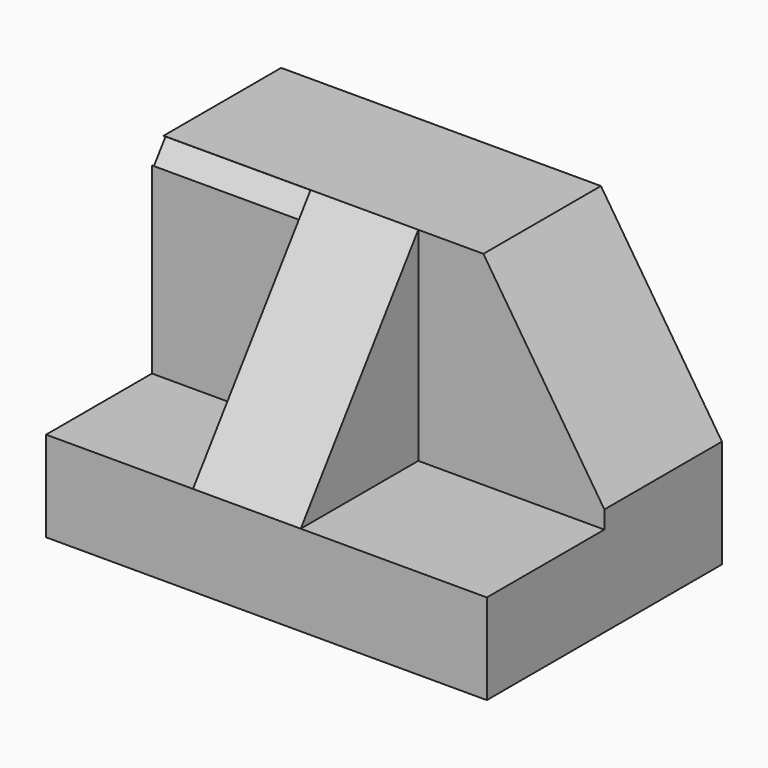
from build123d import *

# Parameters (mm, degrees)
F0_W      = 38.1
F0_H      = 25.4
F1_DEPTH  = 25.4
F3_DEPTH  = 25.401
F4_W      = 11.4385973006
F4_H      = 17.5851260588
F5_DEPTH  = 12.7
F7_DEPTH  = 12.7
F9_DEPTH  = 25.4
F10_W     = 12.7
F10_H     = 2.1544784386
F11_DEPTH = 0.254


with BuildPart() as f1:
    # F0 (on Front) → F1 (new body)
    with BuildSketch(Plane.XZ):
        with Locations((19.05, 12.7)):
            Rectangle(F0_W, F0_H)
    extrude(amount=F1_DEPTH)

    # F2 (on face) → F3 (cut, through all)
    with BuildSketch(Plane.XZ.offset(25.4)):
        Polygon((38.1, 25.4), (27.6416484267, 25.4), (38.1, 9.3479026109), align=None)
    extrude(amount=-F3_DEPTH, mode=Mode.SUBTRACT)

    # F4 (on face) → F5 (cut)
    with BuildSketch(Plane(origin=(0, 0, 0), x_dir=(0, -1, 0), z_dir=(-1, 0, 0))):
        with Locations((19.6807013497, 16.6074369706)):
            Rectangle(F4_W, F4_H)
    extrude(amount=-F5_DEPTH, mode=Mode.SUBTRACT)

    # F6 (on face) → F7 (cut)
    with BuildSketch(Plane.XZ.offset(25.4)):
        Polygon((22.0128018409, 25.4), (22.0128018409, 7.8148739412), (38.1, 7.8148739412), (38.1, 9.3479026109), (27.6416484267, 25.4), align=None)
    extrude(amount=-F7_DEPTH, mode=Mode.SUBTRACT)

    # F8 (on face) → F9 (cut)
    with BuildSketch(Plane.YZ.offset(22.0128018409)):
        Polygon((-25.4, 25.4), (-25.4, 7.8148739412), (-12.7, 25.4), align=None)
    extrude(amount=-F9_DEPTH, mode=Mode.SUBTRACT)

    # F10 (on face) → F11 (cut)
    with BuildSketch(Plane(origin=(0, -20.4024901747, 14.7347038828), x_dir=(1, 0, 0), z_dir=(0, -0.8106872987, 0.5854793795))):
        with Locations((6.35, 12.0786300472)):
            Rectangle(F10_W, F10_H)
    extrude(amount=-F11_DEPTH, mode=Mode.SUBTRACT)


solid = f1.part
